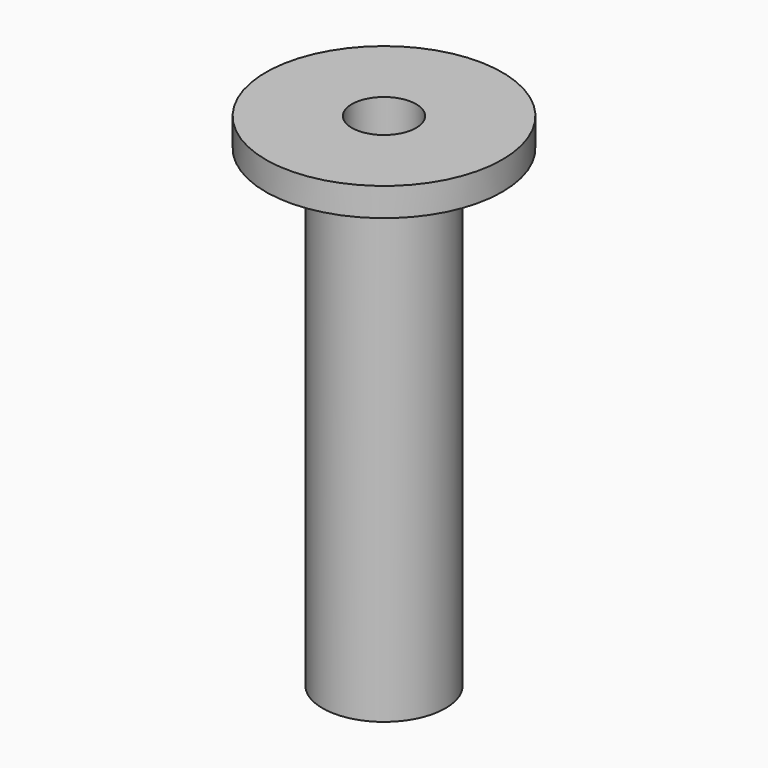
from build123d import *

# Parameters (mm, degrees)
F3_D     = 6.8
F3_DEPTH = 20
F3_TIP   = 2.0429261047
F5_D     = 8
F5_DEPTH = 35
F5_TIP   = 2.4034424761


with BuildPart() as f1:
    # F0 (on Front) → F1 (revolve)
    with BuildSketch(Plane.XZ):
        Polygon((0, 53), (0, 0), (6.5, 0), (6.5, 50), (12.5, 50), (12.5, 53), align=None)
    revolve(axis=Axis((0, 0, 35.806838423), (0, 0, 1)))

    # F3
    with Locations(Plane.XY.offset(53)):
        with Locations((0, 0)):
            Hole(F3_D / 2, depth=F3_DEPTH)
            with Locations((0, 0, -(F3_DEPTH + F3_TIP / 2))):  # 118° drill point
                Cone(0, F3_D / 2, F3_TIP, mode=Mode.SUBTRACT)

    # F5
    with Locations(Plane(origin=(0, 0, 0), x_dir=(1, 0, 0), z_dir=(0, 0, -1))):
        with Locations((0, 0)):
            Hole(F5_D / 2, depth=F5_DEPTH)
            with Locations((0, 0, -(F5_DEPTH + F5_TIP / 2))):  # 118° drill point
                Cone(0, F5_D / 2, F5_TIP, mode=Mode.SUBTRACT)


solid = f1.part
